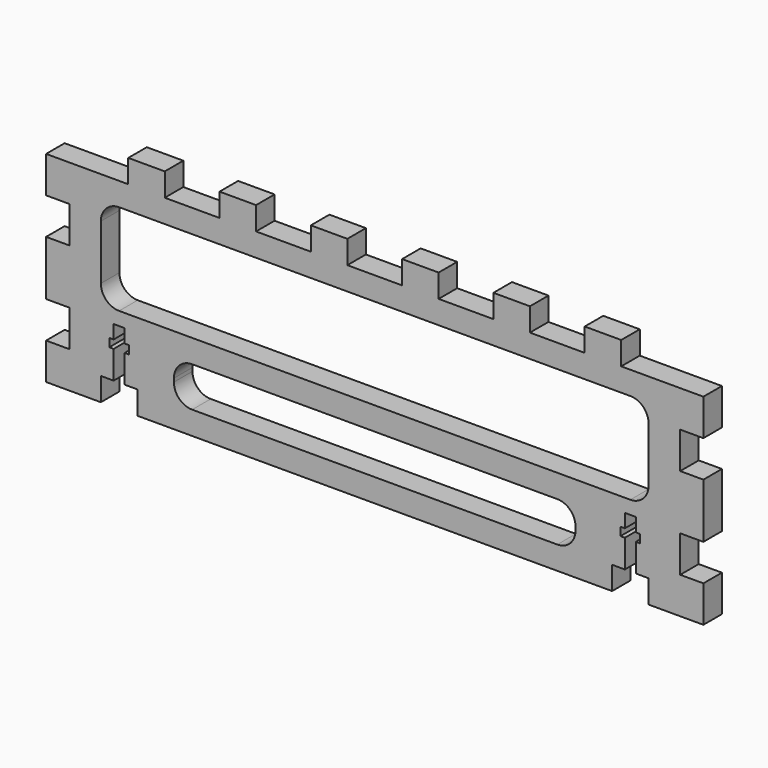
from build123d import *

# Parameters (mm, degrees)
F1_DEPTH = 6.35


with BuildPart() as f1:
    # F0 (on Front) → F1 (new body)
    with BuildSketch(Plane.XZ):
        Polygon((0, 10), (0, 0), (15, 0), (15, 6.35), (18.5, 6.35), (18.5, 14), (17.3, 14), (17.3, 16.27), (18.5, 16.27), (18.5, 20), (21.5, 20), (21.5, 16.27), (22.7, 16.27), (22.7, 14), (21.5, 14), (21.5, 6.35), (25, 6.35), (25, 0), (155, 0), (155, 6.35), (158.5, 6.35), (158.5, 14), (157.3, 14), (157.3, 16.27), (158.5, 16.27), (158.5, 20), (161.5, 20), (161.5, 16.27), (162.7, 16.27), (162.7, 14), (161.5, 14), (161.5, 6.35), (165, 6.35), (165, 0), (180, 0), (180, 10), (173.65, 10), (173.65, 20), (180, 20), (180, 35), (173.65, 35), (173.65, 45), (180, 45), (180, 55), (157.5, 55), (157.5, 61.35), (147.5, 61.35), (147.5, 55), (132.5, 55), (132.5, 61.35), (122.5, 61.35), (122.5, 55), (107.5, 55), (107.5, 61.35), (97.5, 61.35), (97.5, 55), (82.5, 55), (82.5, 61.35), (72.5, 61.35), (72.5, 55), (57.5, 55), (57.5, 61.35), (47.5, 61.35), (47.5, 55), (32.5, 55), (32.5, 61.35), (22.5, 61.35), (22.5, 55), (0, 55), (0, 45), (6.35, 45), (6.35, 35), (0, 35), (0, 20), (6.35, 20), (6.35, 10), align=None)
        with BuildLine():
            ThreePointArc((35, 12.3), (36.464466, 15.835534), (40, 17.3))
            Line((40, 17.3), (140, 17.3))
            ThreePointArc((140, 17.3), (143.535534, 15.835534), (145, 12.3))
            Line((145, 12.3), (145, 11.35))
            ThreePointArc((145, 11.35), (143.535534, 7.814466), (140, 6.35))
            Line((140, 6.35), (40, 6.35))
            ThreePointArc((40, 6.35), (36.464466, 7.814466), (35, 11.35))
            Line((35, 11.35), (35, 12.3))
        make_face(mode=Mode.SUBTRACT)
        with BuildLine():
            ThreePointArc((15, 43.65), (16.464466, 47.185534), (20, 48.65))
            Line((20, 48.65), (160, 48.65))
            ThreePointArc((160, 48.65), (163.535534, 47.185534), (165, 43.65))
            Line((165, 43.65), (165, 28.65))
            ThreePointArc((165, 28.65), (163.535534, 25.114466), (160, 23.65))
            Line((160, 23.65), (20, 23.65))
            ThreePointArc((20, 23.65), (16.464466, 25.114466), (15, 28.65))
            Line((15, 28.65), (15, 43.65))
        make_face(mode=Mode.SUBTRACT)
    extrude(amount=F1_DEPTH)


solid = f1.part
